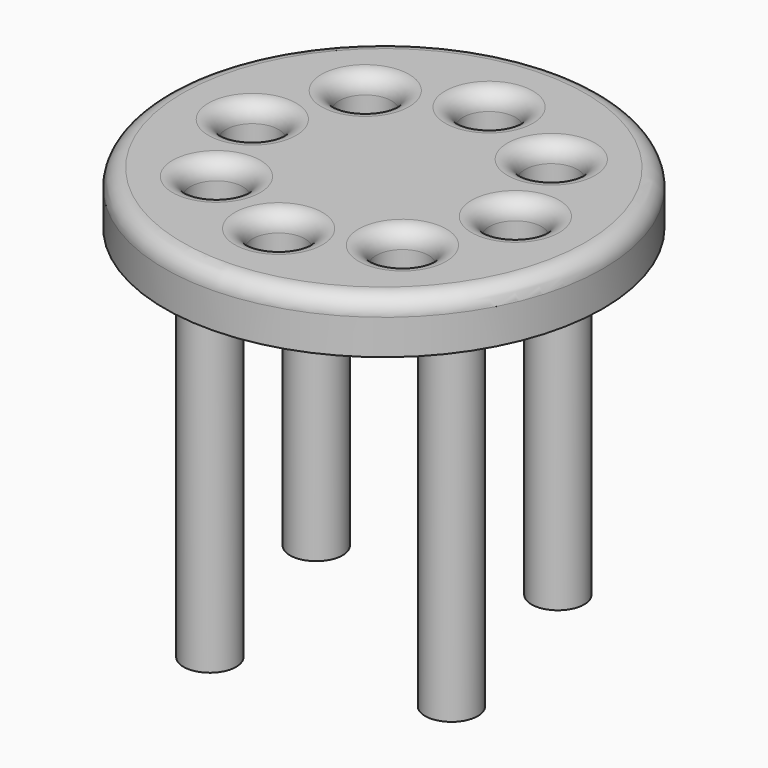
from build123d import *

# Parameters (mm, degrees)
F0_R     = 125
F2_DEPTH = 30
F1_R     = 15
F3_DEPTH = 265
F4_R     = 10
F5_R     = 15
F6_DEPTH = 200


with BuildPart() as f2:
    # F0 (on Top) → F2 (new body)
    with BuildSketch(Plane.XY):
        Circle(F0_R)
    extrude(amount=F2_DEPTH)

    # F1 (on face) → F3 (cut)
    with BuildSketch(Plane.XY):
        with Locations((0, 75)):
            Circle(F1_R)
        with Locations((-53.033009, 53.033009)):
            Circle(F1_R)
        with Locations((-75, 0)):
            Circle(F1_R)
        with Locations((-53.033009, -53.033009)):
            Circle(F1_R)
        with Locations((0, -75)):
            Circle(F1_R)
        with Locations((53.033009, -53.033009)):
            Circle(F1_R)
        with Locations((75, 0)):
            Circle(F1_R)
        with Locations((53.033009, 53.033009)):
            Circle(F1_R)
    extrude(amount=F3_DEPTH, mode=Mode.SUBTRACT)

    # F4
    f4_edges = [f2.edges().sort_by_distance(p)[0] for p in [
        (-125, 0, 30),
        (-68.033009, -53.033009, 30),
        (-15, -75, 30),
        (38.033009, -53.033009, 30),
        (-90, 0, 30),
        (-68.033009, 53.033009, 30),
        (60, 0, 30),
        (-15, 75, 30),
        (38.033009, 53.033009, 30),
    ]]
    fillet(f4_edges, radius=F4_R)

    # F5 (on face) → F6 (join)
    with BuildSketch(Plane(origin=(0, 0, 0), x_dir=(1, 0, 0), z_dir=(0, 0, -1))):
        with Locations((-41.705897, 71.913431)):
            Circle(F5_R)
        with Locations((-71.913431, -41.705897)):
            Circle(F5_R)
        with Locations((41.705897, -71.913431)):
            Circle(F5_R)
        with Locations((71.913431, 41.705897)):
            Circle(F5_R)
    extrude(amount=F6_DEPTH)


solid = f2.part
